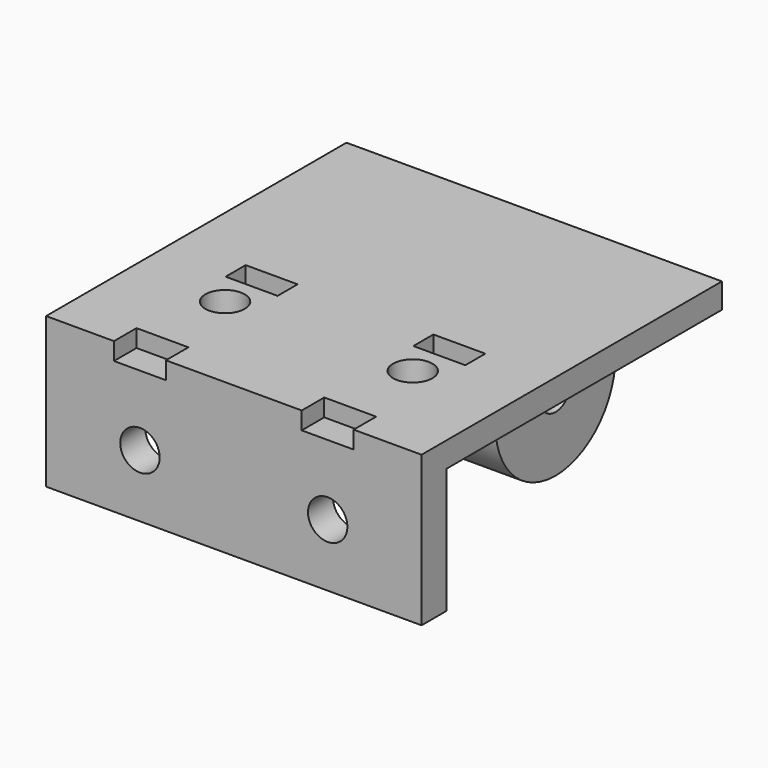
from build123d import *

# Parameters (mm, degrees)
F0_W           = 60
F0_H           = 60
F0_R           = 3.15
F1_DEPTH       = 4
F2_W           = 8.3
F2_H           = 4.5
F2_H_2         = 4
F3_DEPTH       = 2.8
F4_W           = 26
F4_H           = 24
F5_DEPTH       = 24
F6_R           = 3.05
F7_DEPTH       = 43.001
F8_W           = 60
F8_H           = 5
F9_DEPTH       = 20
F11_DEPTH      = 3
F11_DEPTH_BACK = 3
F12_R          = 3.15
F13_DEPTH      = 5.001


with BuildPart() as f1:
    # F0 (on Top) → F1 (new body)
    with BuildSketch(Plane.XY):
        Rectangle(F0_W, F0_H)
        with Locations((-15, -13)):
            Circle(F0_R, mode=Mode.SUBTRACT)
        with Locations((15, -13)):
            Circle(F0_R, mode=Mode.SUBTRACT)
    extrude(amount=F1_DEPTH)

    # F2 (on face) → F3 (cut)
    with BuildSketch(Plane.XY.offset(4)):
        with Locations((-15, -27.75)):
            Rectangle(F2_W, F2_H)
        with Locations((15, -27.75)):
            Rectangle(F2_W, F2_H)
        with Locations((-15, -5.7)):
            Rectangle(F2_W, F2_H_2)
        with Locations((15, -5.7)):
            Rectangle(F2_W, F2_H_2)
    extrude(amount=-F3_DEPTH, mode=Mode.SUBTRACT)

    # F4 (on face) → F5 (join)
    with BuildSketch(Plane(origin=(0, 0, 0), x_dir=(1, 0, 0), z_dir=(0, 0, -1))):
        with Locations((0, -18)):
            Rectangle(F4_W, F4_H)
    extrude(amount=F5_DEPTH)

    # F6 (on face) → F7 (cut, through all)
    with BuildSketch(Plane.YZ.offset(13)):
        with BuildLine():
            ThreePointArc((30, -12), (26.485281, -20.485281), (18, -24))
            Line((18, -24), (30, -24))
            Line((30, -24), (30, -12))
        make_face()
        with BuildLine():
            ThreePointArc((18, -24), (9.514719, -20.485281), (6, -12))
            Line((6, -12), (6, -24))
            Line((6, -24), (18, -24))
        make_face()
        with Locations((18, -12)):
            Circle(F6_R)
    extrude(amount=-F7_DEPTH, mode=Mode.SUBTRACT)

    # F8 (on face) → F9 (join)
    with BuildSketch(Plane(origin=(0, 0, 0), x_dir=(1, 0, 0), z_dir=(0, 0, -1))):
        with Locations((0, 27.5)):
            Rectangle(F8_W, F8_H)
    extrude(amount=F9_DEPTH)

    # F10 (on Right) → F11 (join, two sides)
    with BuildSketch(Plane.YZ) as f11_sk:
        Polygon((-25, 0), (-25, -20), (6, -6), (6, 0), align=None)
    extrude(amount=F11_DEPTH)
    extrude(f11_sk.sketch, amount=-F11_DEPTH_BACK)

    # F12 (on face) → F13 (cut, through all)
    with BuildSketch(Plane(origin=(0, -25, 0), x_dir=(-1, 0, 0), z_dir=(0, 1, 0))):
        with Locations((15, -10)):
            Circle(F12_R)
        with Locations((-15, -10)):
            Circle(F12_R)
    extrude(amount=-F13_DEPTH, mode=Mode.SUBTRACT)


solid = f1.part
